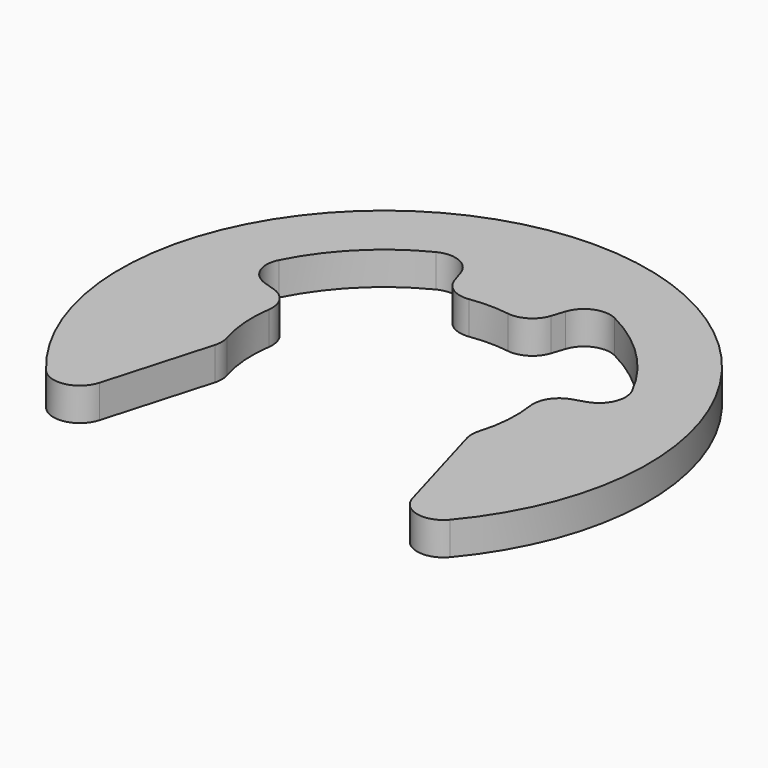
from build123d import *

# Parameters (mm, degrees)
PAD_DEPTH = 1
FILLET_R  = 0.8


with BuildPart() as part:
    # Sketch → Pad (new body)
    with BuildSketch(Plane.XY):
        with BuildLine():
            ThreePointArc((5.114745, -6.151372), (0, 8), (-5.114745, -6.151372))
            Line((-5.114745, -6.151372), (-3.75, -1.391941))
            ThreePointArc((-3.804226, 1.236068), (-3.999149, -0.082518), (-3.75, -1.391941))
            Line((-5.706339, 1.854102), (-3.804226, 1.236068))
            ThreePointArc((-1.854249, 5.706291), (-4.242695, 4.242586), (-5.706339, 1.854102))
            Line((-1.854249, 5.706291), (-1.236068, 3.804226))
            ThreePointArc((1.236068, 3.804226), (0, 4), (-1.236068, 3.804226))
            Line((1.853955, 5.706387), (1.236068, 3.804226))
            ThreePointArc((5.706339, 1.854102), (4.242586, 4.242695), (1.853955, 5.706387))
            Line((3.804226, 1.236068), (5.706339, 1.854102))
            ThreePointArc((3.75, -1.391941), (3.999149, -0.082518), (3.804226, 1.236068))
            Line((5.114745, -6.151372), (3.75, -1.391941))
        make_face()
    extrude(amount=PAD_DEPTH)

    # Fillet
    fillet_edges = [part.edges().sort_by_distance(p)[0] for p in [
        (-5.114745, -6.151372, 0.5),
        (-3.75, -1.391941, 0.5),
        (-3.804226, 1.236068, 0.5),
        (-5.706339, 1.854102, 0.5),
        (-1.854249, 5.706291, 0.5),
        (-1.236068, 3.804226, 0.5),
        (1.236068, 3.804226, 0.5),
        (1.853955, 5.706387, 0.5),
        (5.706339, 1.854102, 0.5),
        (3.804226, 1.236068, 0.5),
        (3.75, -1.391941, 0.5),
        (5.114745, -6.151372, 0.5),
    ]]
    fillet(fillet_edges, radius=FILLET_R)


solid = part.part
